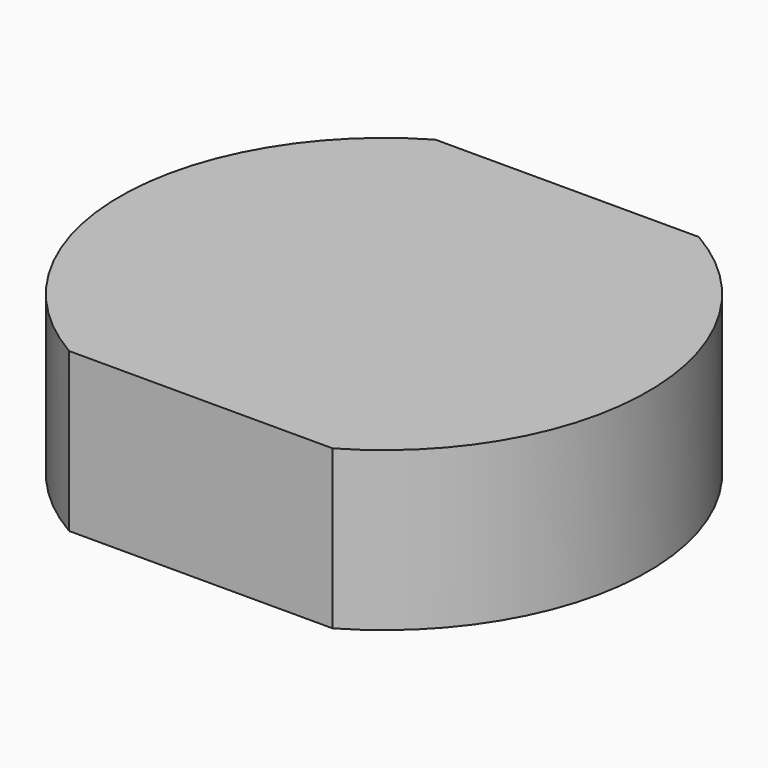
from build123d import *

# Parameters (mm, degrees)
PAD_1_DEPTH = 27


with BuildPart() as part:
    # Sketch_1 → Pad_1 (new body)
    with BuildSketch(Plane.XY):
        with BuildLine():
            ThreePointArc((22.431948, -38.989646), (44.991025, 0.010354), (22.431948, 39.010354))
            Line((22.431948, 39.010354), (-22.431948, 39.010354))
            ThreePointArc((-22.431948, 39.010354), (-44.991025, 0.010354), (-22.431948, -38.989646))
            Line((-22.431948, -38.989646), (22.431948, -38.989646))
        make_face()
    extrude(amount=PAD_1_DEPTH)


solid = part.part
